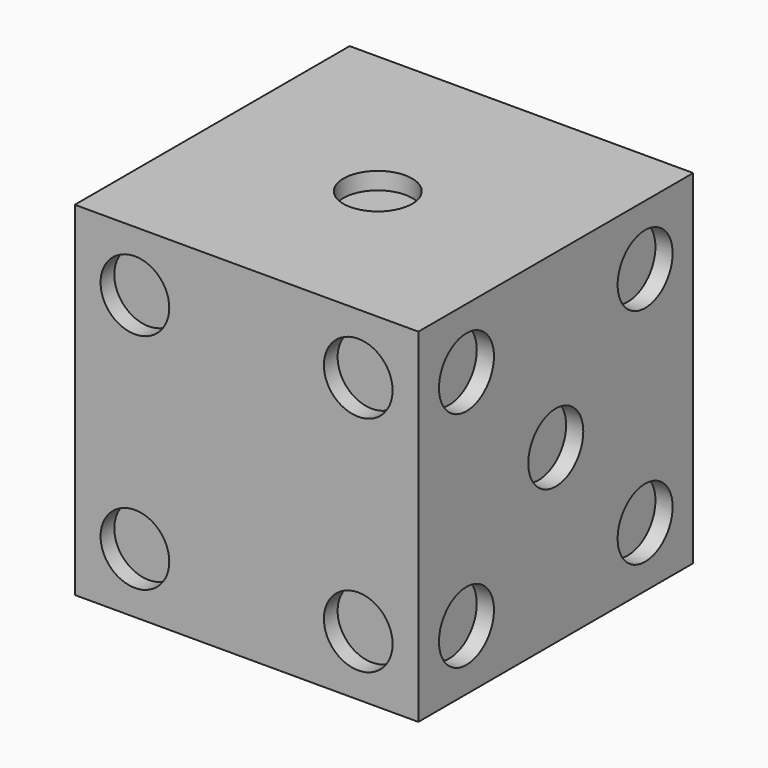
from build123d import *

# Parameters (mm, degrees)
F0_W      = 127
F0_H      = 127
F1_DEPTH  = 127
F2_R      = 12.7
F3_DEPTH  = 6.35
F4_R      = 12.7
F5_DEPTH  = 6.35
F6_R      = 12.7
F7_DEPTH  = 6.35
F8_R      = 12.7
F9_DEPTH  = 6.35
F11_DEPTH = 6.35
F12_R     = 12.7
F13_DEPTH = 6.35


with BuildPart() as f1:
    # F0 (on Top) → F1 (new body)
    with BuildSketch(Plane.XY):
        with Locations((63.5, 63.5)):
            Rectangle(F0_W, F0_H)
    extrude(amount=F1_DEPTH)

    # F2 (on face) → F3 (cut)
    with BuildSketch(Plane.XY.offset(127)):
        with Locations((63.000895, 61.254025)):
            Circle(F2_R)
    extrude(amount=-F3_DEPTH, mode=Mode.SUBTRACT)

    # F4 (on face) → F5 (cut)
    with BuildSketch(Plane(origin=(0, 0, 0), x_dir=(1, 0, 0), z_dir=(0, 0, -1))):
        with Locations((22.225, -22.225)):
            Circle(F4_R)
        with Locations((22.225, -63.5)):
            Circle(F4_R)
        with Locations((22.225, -104.775)):
            Circle(F4_R)
        with Locations((104.775, -63.5)):
            Circle(F4_R)
        with Locations((104.775, -22.225)):
            Circle(F4_R)
        with Locations((104.775, -104.775)):
            Circle(F4_R)
    extrude(amount=-F5_DEPTH, mode=Mode.SUBTRACT)

    # F6 (on face) → F7 (cut)
    with BuildSketch(Plane(origin=(0, 0, 0), x_dir=(0, -1, 0), z_dir=(-1, 0, 0))):
        with Locations((-22.225, 22.225)):
            Circle(F6_R)
        with Locations((-104.775, 104.775)):
            Circle(F6_R)
    extrude(amount=-F7_DEPTH, mode=Mode.SUBTRACT)

    # F8 (on face) → F9 (cut)
    with BuildSketch(Plane.YZ.offset(127)):
        with Locations((22.225, 104.775)):
            Circle(F8_R)
        with Locations((63.5, 63.5)):
            Circle(F8_R)
        with Locations((22.225, 22.225)):
            Circle(F8_R)
        with Locations((104.775, 104.775)):
            Circle(F8_R)
        with Locations((104.775, 22.225)):
            Circle(F8_R)
    extrude(amount=-F9_DEPTH, mode=Mode.SUBTRACT)

    # F10 (on face) → F11 (cut)
    with BuildSketch(Plane(origin=(0, 127, 0), x_dir=(-1, 0, 0), z_dir=(0, 1, 0))):
        with BuildLine():
            ThreePointArc((-95.794744, 31.205256), (-113.755256, 31.205256), (-113.755256, 13.244744))
            Line((-113.755256, 13.244744), (-95.794744, 31.205256))
        make_face()
        with BuildLine():
            ThreePointArc((-13.244744, 113.755256), (-31.205256, 113.755256), (-31.205256, 95.794744))
            Line((-31.205256, 95.794744), (-13.244744, 113.755256))
        make_face()
        with BuildLine():
            Line((-13.244744, 113.755256), (-31.205256, 95.794744))
            ThreePointArc((-31.205256, 95.794744), (-17.36492, 93.04173), (-9.525, 104.775))
            ThreePointArc((-9.525, 104.775), (-10.49173, 109.63508), (-13.244744, 113.755256))
        make_face()
        with BuildLine():
            ThreePointArc((-54.519744, 72.480256), (-72.480256, 72.480256), (-72.480256, 54.519744))
            Line((-72.480256, 54.519744), (-54.519744, 72.480256))
        make_face()
        with BuildLine():
            Line((-54.519744, 72.480256), (-72.480256, 54.519744))
            ThreePointArc((-72.480256, 54.519744), (-58.63992, 51.76673), (-50.8, 63.5))
            ThreePointArc((-50.8, 63.5), (-51.76673, 68.36008), (-54.519744, 72.480256))
        make_face()
        with BuildLine():
            Line((-95.794744, 31.205256), (-113.755256, 13.244744))
            ThreePointArc((-113.755256, 13.244744), (-99.91492, 10.49173), (-92.075, 22.225))
            ThreePointArc((-92.075, 22.225), (-93.04173, 27.08508), (-95.794744, 31.205256))
        make_face()
    extrude(amount=-F11_DEPTH, mode=Mode.SUBTRACT)

    # F12 (on face) → F13 (cut)
    with BuildSketch(Plane.XZ):
        with Locations((22.225, 22.225)):
            Circle(F12_R)
        with Locations((22.225, 104.775)):
            Circle(F12_R)
        with Locations((104.775, 104.775)):
            Circle(F12_R)
        with Locations((104.775, 22.225)):
            Circle(F12_R)
    extrude(amount=-F13_DEPTH, mode=Mode.SUBTRACT)


solid = f1.part
